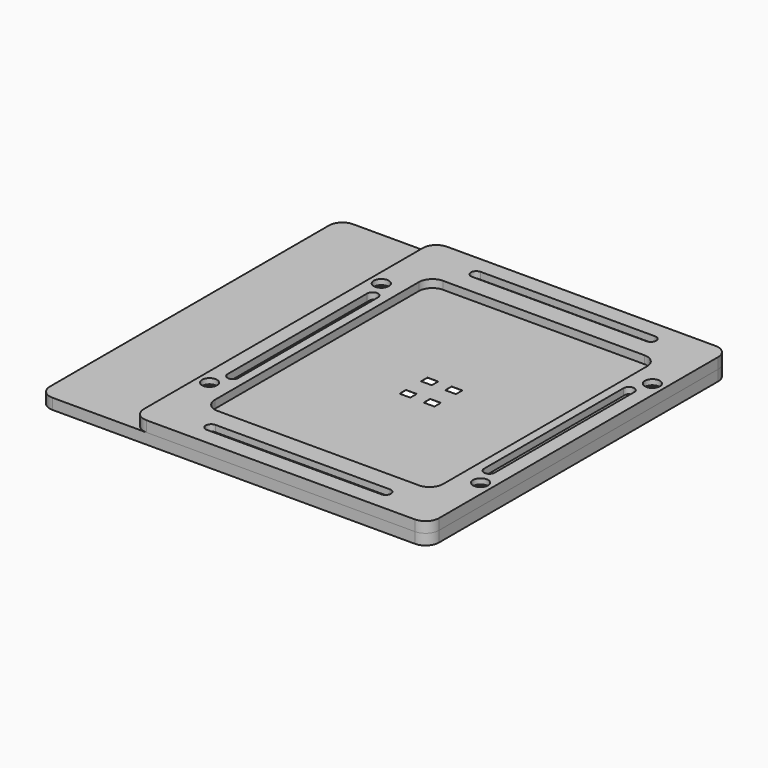
from build123d import *

# Parameters (mm, degrees)
SKETCH_W         = 4
SKETCH_H         = 3
EXTRUDE_DEPTH    = 0.05
EXTRUDE005_DEPTH = 2
SKETCH001_R      = 1.45
EXTRUDE001_DEPTH = 4
SKETCH004_R      = 2.8
EXTRUDE004_DEPTH = 3
SKETCH003_R      = 1.8
EXTRUDE003_DEPTH = 4


with BuildPart() as extrude_body:
    # Sketch → Extrude (new body)
    with BuildSketch(Plane.XY):
        with BuildLine():
            Line((-41, 60), (41, 60))
            ThreePointArc((46, 55), (44.535534, 58.535534), (41, 60))
            Line((46, 55), (46, -55))
            ThreePointArc((41, -60), (44.535534, -58.535534), (46, -55))
            Line((41, -60), (-41, -60))
            ThreePointArc((-46, -55), (-44.535534, -58.535534), (-41, -60))
            Line((-46, -55), (-46, 55))
            ThreePointArc((-41, 60), (-44.535534, 58.535534), (-46, 55))
        make_face()
        with Locations((-4.5, 5)):
            Rectangle(SKETCH_W, SKETCH_H, mode=Mode.SUBTRACT)
        with Locations((4.5, 5)):
            Rectangle(SKETCH_W, SKETCH_H, mode=Mode.SUBTRACT)
        with Locations((-4.5, -5)):
            Rectangle(SKETCH_W, SKETCH_H, mode=Mode.SUBTRACT)
        with Locations((4.5, -5)):
            Rectangle(SKETCH_W, SKETCH_H, mode=Mode.SUBTRACT)
    extrude(amount=EXTRUDE_DEPTH)


with BuildPart() as extrude_body_1:
    # Extrude placement: moved
    add(extrude_body.part.moved(Location((0, 0, 5))))


with BuildPart() as extrude005:
    # Sketch002 → Extrude005 (new body)
    with BuildSketch(Plane.XY):
        with BuildLine():
            Line((46.375, 32.5), (46.375, -32.5))
            ThreePointArc((46.375, -32.5), (47.625, -33.75), (48.875, -32.5))
            Line((48.875, -32.5), (48.875, 32.5))
            ThreePointArc((48.875, 32.5), (47.625, 33.75), (46.375, 32.5))
        make_face()
        with BuildLine():
            Line((-46.375, 32.5), (-46.375, -32.5))
            ThreePointArc((-48.875, -32.5), (-47.625, -33.75), (-46.375, -32.5))
            Line((-48.875, -32.5), (-48.875, 32.5))
            ThreePointArc((-46.375, 32.5), (-47.625, 33.75), (-48.875, 32.5))
        make_face()
        with BuildLine():
            Line((-32.5, 62.875), (32.5, 62.875))
            ThreePointArc((32.5, 60.375), (33.75, 61.625), (32.5, 62.875))
            Line((32.5, 60.375), (-32.5, 60.375))
            ThreePointArc((-32.5, 62.875), (-33.75, 61.625), (-32.5, 60.375))
        make_face()
        with BuildLine():
            Line((-32.5, -60.375), (32.5, -60.375))
            ThreePointArc((32.5, -62.875), (33.75, -61.625), (32.5, -60.375))
            Line((32.5, -62.875), (-32.5, -62.875))
            ThreePointArc((-32.5, -60.375), (-33.75, -61.625), (-32.5, -62.875))
        make_face()
    extrude(amount=EXTRUDE005_DEPTH)


with BuildPart() as extrude005_1:
    # Extrude005 placement: moved
    add(extrude005.part.moved(Location((0, 0, 4))))


with BuildPart() as fusion:
    # Sketch001 → Extrude001 (new body)
    with BuildSketch(Plane.XY):
        with BuildLine():
            Line((-85, 70), (50, 70))
            ThreePointArc((55, 65), (53.535534, 68.535534), (50, 70))
            Line((55, 65), (55, -65))
            ThreePointArc((50, -70), (53.535534, -68.535534), (55, -65))
            Line((50, -70), (-85, -70))
            ThreePointArc((-90, -65), (-88.535534, -68.535534), (-85, -70))
            Line((-90, -65), (-90, 65))
            ThreePointArc((-85, 70), (-88.535534, 68.535534), (-90, 65))
        make_face()
        with Locations((-50.5, 40)):
            Circle(SKETCH001_R, mode=Mode.SUBTRACT)
        with Locations((50.5, -40)):
            Circle(SKETCH001_R, mode=Mode.SUBTRACT)
        with Locations((-50.5, -40)):
            Circle(SKETCH001_R, mode=Mode.SUBTRACT)
        with Locations((50.5, 40)):
            Circle(SKETCH001_R, mode=Mode.SUBTRACT)
        with BuildLine():
            Line((-37.5, 52.5), (37.5, 52.5))
            ThreePointArc((42.5, 47.5), (41.035534, 51.035534), (37.5, 52.5))
            Line((42.5, 47.5), (42.5, -47.5))
            ThreePointArc((37.5, -52.5), (41.035534, -51.035534), (42.5, -47.5))
            Line((37.5, -52.5), (-37.5, -52.5))
            ThreePointArc((-42.5, -47.5), (-41.035534, -51.035534), (-37.5, -52.5))
            Line((-42.5, -47.5), (-42.5, 47.5))
            ThreePointArc((-37.5, 52.5), (-41.035534, 51.035534), (-42.5, 47.5))
        make_face(mode=Mode.SUBTRACT)
    extrude(amount=EXTRUDE001_DEPTH)

    # Fusion: union Extrude005
    add(extrude005_1.part)


with BuildPart() as extrude004:
    # Sketch004 → Extrude004 (new body)
    with BuildSketch(Plane.XY):
        with Locations((-50.5, 40)):
            Circle(SKETCH004_R)
        with Locations((50.5, -40)):
            Circle(SKETCH004_R)
        with Locations((-50.5, -40)):
            Circle(SKETCH004_R)
        with Locations((50.5, 40)):
            Circle(SKETCH004_R)
    extrude(amount=EXTRUDE004_DEPTH)


with BuildPart() as extrude004_1:
    # Extrude004 placement: moved
    add(extrude004.part.moved(Location((0, 0, 6))))


with BuildPart() as cut:
    # Sketch003 → Extrude003 (new body)
    with BuildSketch(Plane.XY):
        with BuildLine():
            Line((-50, 70), (50, 70))
            ThreePointArc((55, 65), (53.535534, 68.535534), (50, 70))
            Line((55, 65), (55, -65))
            ThreePointArc((50, -70), (53.535534, -68.535534), (55, -65))
            Line((50, -70), (-50, -70))
            ThreePointArc((-55, -65), (-53.535534, -68.535534), (-50, -70))
            Line((-55, -65), (-55, 65))
            ThreePointArc((-50, 70), (-53.535534, 68.535534), (-55, 65))
        make_face()
        with Locations((-50.5, 40)):
            Circle(SKETCH003_R, mode=Mode.SUBTRACT)
        with Locations((50.5, -40)):
            Circle(SKETCH003_R, mode=Mode.SUBTRACT)
        with Locations((-50.5, -40)):
            Circle(SKETCH003_R, mode=Mode.SUBTRACT)
        with Locations((50.5, 40)):
            Circle(SKETCH003_R, mode=Mode.SUBTRACT)
        with BuildLine():
            Line((-37.5, 52.5), (37.5, 52.5))
            ThreePointArc((42.5, 47.5), (41.035534, 51.035534), (37.5, 52.5))
            Line((42.5, 47.5), (42.5, -47.5))
            ThreePointArc((37.5, -52.5), (41.035534, -51.035534), (42.5, -47.5))
            Line((37.5, -52.5), (-37.5, -52.5))
            ThreePointArc((-42.5, -47.5), (-41.035534, -51.035534), (-37.5, -52.5))
            Line((-42.5, -47.5), (-42.5, 47.5))
            ThreePointArc((-37.5, 52.5), (-41.035534, 51.035534), (-42.5, 47.5))
        make_face(mode=Mode.SUBTRACT)
        with BuildLine():
            ThreePointArc((-45.75, 32.5), (-47.75, 34.5), (-49.75, 32.5))
            Line((-49.75, 32.5), (-49.75, -32.5))
            ThreePointArc((-49.75, -32.5), (-47.75, -34.5), (-45.75, -32.5))
            Line((-45.75, 32.5), (-45.75, -32.5))
        make_face(mode=Mode.SUBTRACT)
        with BuildLine():
            ThreePointArc((-32.5, -59.75), (-34.5, -61.75), (-32.5, -63.75))
            Line((-32.5, -63.75), (32.5, -63.75))
            ThreePointArc((32.5, -63.75), (34.5, -61.75), (32.5, -59.75))
            Line((-32.5, -59.75), (32.5, -59.75))
        make_face(mode=Mode.SUBTRACT)
        with BuildLine():
            ThreePointArc((49.75, 32.5), (47.75, 34.5), (45.75, 32.5))
            Line((45.75, 32.5), (45.75, -32.5))
            ThreePointArc((45.75, -32.5), (47.75, -34.5), (49.75, -32.5))
            Line((49.75, 32.5), (49.75, -32.5))
        make_face(mode=Mode.SUBTRACT)
        with BuildLine():
            ThreePointArc((-32.5, 63.75), (-34.5, 61.75), (-32.5, 59.75))
            Line((-32.5, 59.75), (32.5, 59.75))
            ThreePointArc((32.5, 59.75), (34.5, 61.75), (32.5, 63.75))
            Line((-32.5, 63.75), (32.5, 63.75))
        make_face(mode=Mode.SUBTRACT)
    extrude(amount=EXTRUDE003_DEPTH)


with BuildPart() as cut_1:
    # Extrude003 placement: moved
    add(cut.part.moved(Location((0, 0, 4))))

    # Cut: cut Extrude004
    add(extrude004_1.part, mode=Mode.SUBTRACT)


solid = Compound([extrude_body_1.part, fusion.part, cut_1.part])
